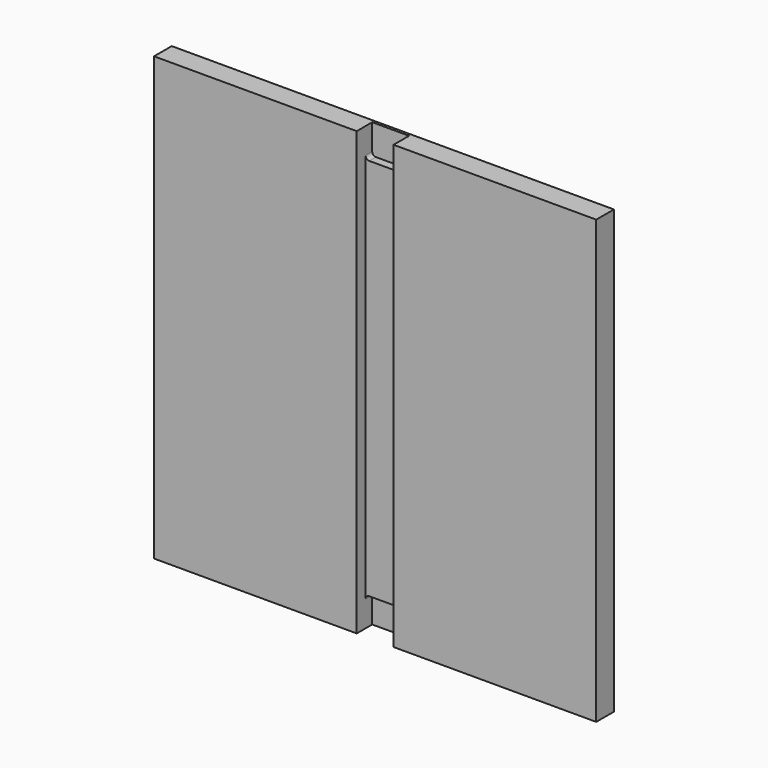
from build123d import *

# Parameters (mm, degrees)
F0_W     = 174.625
F0_H     = 381
F1_DEPTH = 12.7
F0_W_2   = 31.75
F2_DEPTH = 3.175
F4_W     = 381
F4_H     = 381
F5_DEPTH = 6.35
F6_DEPTH = 16.66875


with BuildPart() as f1:
    # F0 (on Front) → F1 (new body)
    with BuildSketch(Plane.XZ):
        with Locations((-111.50095, 51.705398)):
            Rectangle(F0_W, F0_H)
        with Locations((94.87405, 51.705398)):
            Rectangle(F0_W, F0_H)
    extrude(amount=F1_DEPTH)

    # F0 (on Front) → F2 (join)
    with BuildSketch(Plane.XZ):
        with Locations((-8.31345, 51.705398)):
            Rectangle(F0_W_2, F0_H)
    extrude(amount=F2_DEPTH)

    # F4 (on face) → F5 (join)
    with BuildSketch(Plane.XZ):
        with Locations((-8.31345, 51.705398)):
            Rectangle(F4_W, F4_H)
    extrude(amount=-F5_DEPTH)

    # F3 (on face) → F6 (cut)
    with BuildSketch(Plane.XZ.offset(12.7)):
        with BuildLine():
            Line((-24.18845, -116.569602), (-24.18845, -138.794602))
            Line((-24.18845, -138.794602), (7.56155, -138.794602))
            Line((7.56155, -138.794602), (7.56155, -116.569602))
            ThreePointArc((7.56155, -116.569602), (6.631614, -114.324538), (4.38655, -113.394602))
            Line((4.38655, -113.394602), (-21.01345, -113.394602))
            ThreePointArc((-21.01345, -113.394602), (-23.258514, -114.324538), (-24.18845, -116.569602))
        make_face()
        with BuildLine():
            ThreePointArc((-24.18845, 219.980398), (-23.258514, 217.735334), (-21.01345, 216.805398))
            Line((-21.01345, 216.805398), (4.38655, 216.805398))
            ThreePointArc((4.38655, 216.805398), (6.631614, 217.735334), (7.56155, 219.980398))
            Line((7.56155, 219.980398), (7.56155, 242.205398))
            Line((7.56155, 242.205398), (-24.18845, 242.205398))
            Line((-24.18845, 242.205398), (-24.18845, 219.980398))
        make_face()
    extrude(amount=-F6_DEPTH, mode=Mode.SUBTRACT)


solid = f1.part
